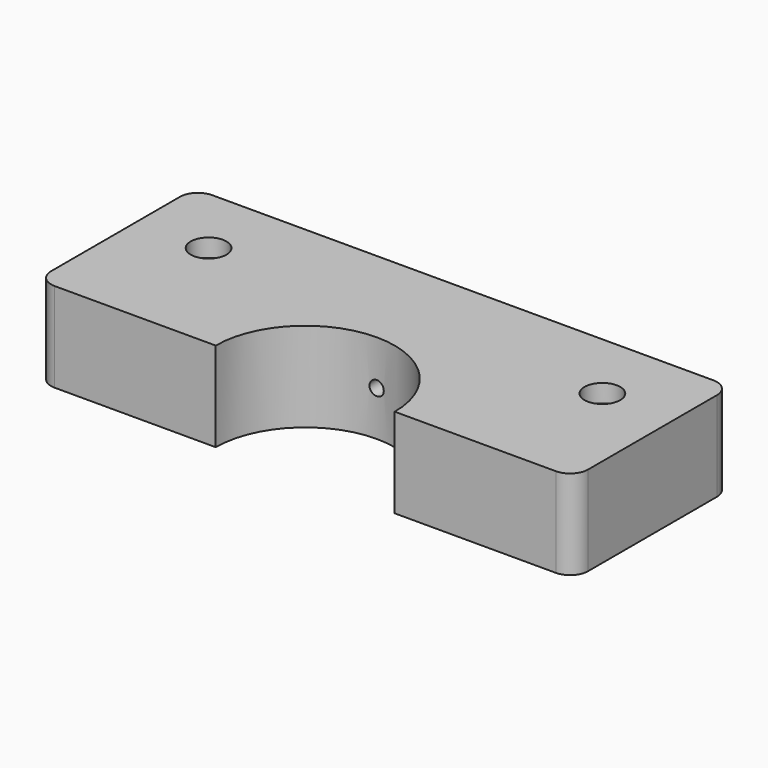
from build123d import *

# Parameters (mm, degrees)
F1_DEPTH       = 12.5
F2_R           = 5
F4_D           = 5
F4_DEPTH       = 20
F4_CBORE_D     = 10
F4_CBORE_DEPTH = 5
F4_TIP         = 1.5021515476
F6_D           = 4
F6_CSINK_D     = 10
F6_CSINK_ANGLE = 90


with BuildPart() as f1:
    # F0 (on Top) → F1 (new body, symmetric)
    with BuildSketch(Plane.XY):
        with BuildLine():
            Line((75, 27.5), (-75, 27.5))
            Line((-75, 27.5), (-75, -27.5))
            Line((-75, -27.5), (-25, -27.5))
            ThreePointArc((-25, -27.5), (0, -2.5), (25, -27.5))
            Line((25, -27.5), (75, -27.5))
            Line((75, -27.5), (75, 27.5))
        make_face()
    extrude(amount=F1_DEPTH, both=True)

    # F2
    f2_edges = [f1.edges().sort_by_distance(p)[0] for p in [
        (75, 27.5, 0),
        (-75, 27.5, 0),
        (-75, -27.5, 0),
        (75, -27.5, 0),
    ]]
    fillet(f2_edges, radius=F2_R)

    # F4
    with Locations(Plane.XY.offset(12.5)):
        with Locations((-55, 7.5), (55, 7.5)):
            CounterBoreHole(F4_D / 2, F4_CBORE_D / 2, F4_CBORE_DEPTH, depth=F4_DEPTH)
            with Locations((0, 0, -(F4_DEPTH + F4_TIP / 2))):  # 118° drill point
                Cone(0, F4_D / 2, F4_TIP, mode=Mode.SUBTRACT)

    # F6 (through all)
    with Locations(Plane(origin=(0, 27.5, 0), x_dir=(-1, 0, 0), z_dir=(0, 1, 0))):
        with Locations((0, 0)):
            CounterSinkHole(F6_D / 2, F6_CSINK_D / 2, counter_sink_angle=F6_CSINK_ANGLE)


solid = f1.part
